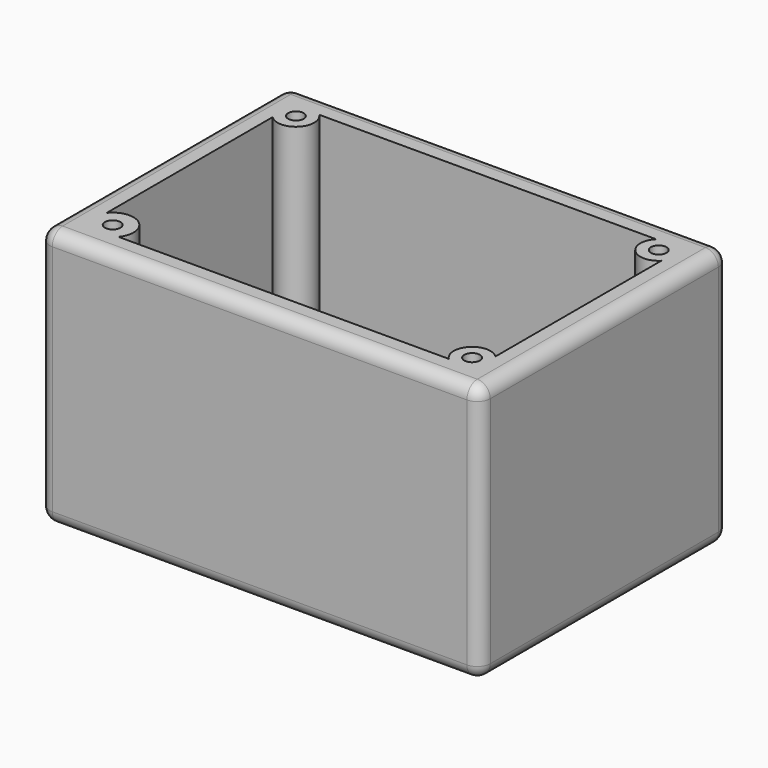
from build123d import *

# Parameters (mm, degrees)
F0_W     = 170
F0_H     = 100
F1_DEPTH = 60
F2_T     = -10
F3_R     = 5
F4_R     = 3
F5_DEPTH = 90
F7_D     = 6


with BuildPart() as f1:
    # F0 (on Front) → F1 (new body, symmetric)
    with BuildSketch(Plane.XZ):
        Rectangle(F0_W, F0_H)
    extrude(amount=F1_DEPTH, both=True)

    # F2
    f2_openings = [f1.faces().sort_by_distance(p)[0] for p in [
        (0, 0, 50),
    ]]
    offset(amount=F2_T, openings=f2_openings)

    # F3
    f3_edges = [f1.edges().sort_by_distance(p)[0] for p in [
        (-85, 0, 50),
        (0, -60, 50),
        (85, 0, 50),
        (0, 60, 50),
        (85, 60, 0),
        (85, -60, 0),
        (85, 0, -50),
        (-85, -60, 0),
        (0, -60, -50),
        (-85, 60, 0),
        (-85, 0, -50),
        (0, 60, -50),
    ]]
    fillet(f3_edges, radius=F3_R)

    # F4 (on face) → F5 (join, through all)
    with BuildSketch(Plane.XY.offset(50)):
        with BuildLine():
            Line((-65, 50), (-75, 50))
            Line((-75, 50), (-75, 40))
            ThreePointArc((-75, 40), (-65, 40), (-65, 50))
        make_face()
        with Locations((-70, 45)):
            Circle(F4_R, mode=Mode.SUBTRACT)
        with BuildLine():
            Line((75, 40), (75, 50))
            Line((75, 50), (65, 50))
            ThreePointArc((65, 50), (65, 40), (75, 40))
        make_face()
        with Locations((70, 45)):
            Circle(F4_R, mode=Mode.SUBTRACT)
        with BuildLine():
            Line((65, -50), (75, -50))
            Line((75, -50), (75, -40))
            ThreePointArc((75, -40), (65, -40), (65, -50))
        make_face()
        with Locations((70, -45)):
            Circle(F4_R, mode=Mode.SUBTRACT)
        with BuildLine():
            Line((-75, -40), (-75, -50))
            Line((-75, -50), (-62.405661, -50))
            ThreePointArc((-62.405661, -50), (-63.70283, -38.70283), (-75, -40))
        make_face()
        with Locations((-68.70283, -45)):
            Circle(F4_R, mode=Mode.SUBTRACT)
        with BuildLine():
            Line((-65, 50), (-75, 50))
            Line((-75, 50), (-75, 40))
            ThreePointArc((-75, 40), (-65, 40), (-65, 50))
        make_face()
        with Locations((-70, 45)):
            Circle(F4_R, mode=Mode.SUBTRACT)
    extrude(amount=-F5_DEPTH)

    # F7 (through all)
    with Locations(Plane(origin=(0, 0, -50), x_dir=(1, 0, 0), z_dir=(0, 0, -1))):
        with Locations((-25, 0), (25, 0)):
            Hole(F7_D / 2)


solid = f1.part
